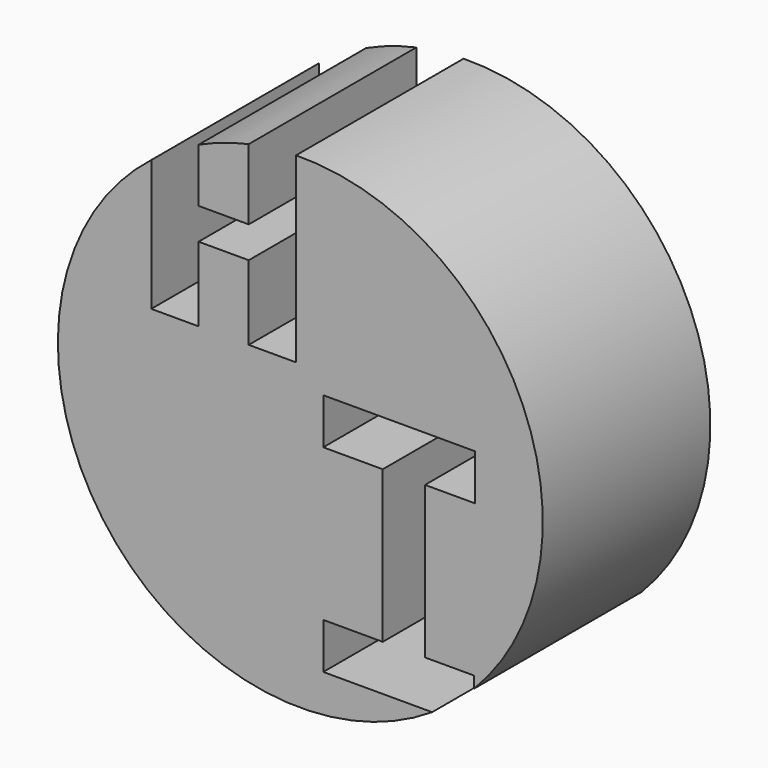
from build123d import *

# Parameters (mm, degrees)
F0_R     = 49.4010411081
F1_DEPTH = 42.672
F2_W     = 8.6142150685
F2_H     = 30.9527735226
F2_W_2   = 10.2202557027
F2_H_2   = 6.4241588116
F3_DEPTH = 57.404


with BuildPart() as f1:
    # F0 (on Front) → F1 (new body)
    with BuildSketch(Plane.XZ):
        with Locations((-16.7904179543, 8.6142159998)):
            Circle(F0_R)
    extrude(amount=F1_DEPTH)

    # F2 (on Front) → F3 (cut)
    with BuildSketch(Plane.XZ):
        with Locations((4.3071075343, -8.0302006099)):
            Rectangle(F2_W, F2_H)
        with Locations((-32.4128102511, 39.274983108)):
            Rectangle(F2_W_2, F2_H_2)
        Polygon((-12.1183022857, 7.4461861514), (0, 7.4461861514), (8.6142150685, 7.4461861514), (18.8344717026, 7.4461861514), (18.8344717026, 16.790419817), (-12.1183022857, 16.790419817), align=None)
        Polygon((0, -23.5065873712), (-12.1183022857, -23.5065873712), (-12.1183022857, -32.8508205712), (18.5424648225, -32.8508205712), (18.5424648225, -23.5065873712), (8.6142150685, -23.5065873712), align=None)
        Polygon((-27.3026823997, 58.8394701481), (-27.3026823997, 42.4870625138), (-27.3026823997, 36.0629037023), (-27.3026823997, 20.8785217255), (-17.6664423198, 20.8785217255), (-17.6664423198, 58.8394701481), align=None)
        Polygon((-37.5229381025, 57.6714426279), (-47.1591800451, 57.6714426279), (-47.1591800451, 20.8785217255), (-37.5229381025, 20.8785217255), (-37.5229381025, 36.0629037023), (-37.5229381025, 42.4870625138), align=None)
    extrude(amount=F3_DEPTH, mode=Mode.SUBTRACT)


solid = f1.part
